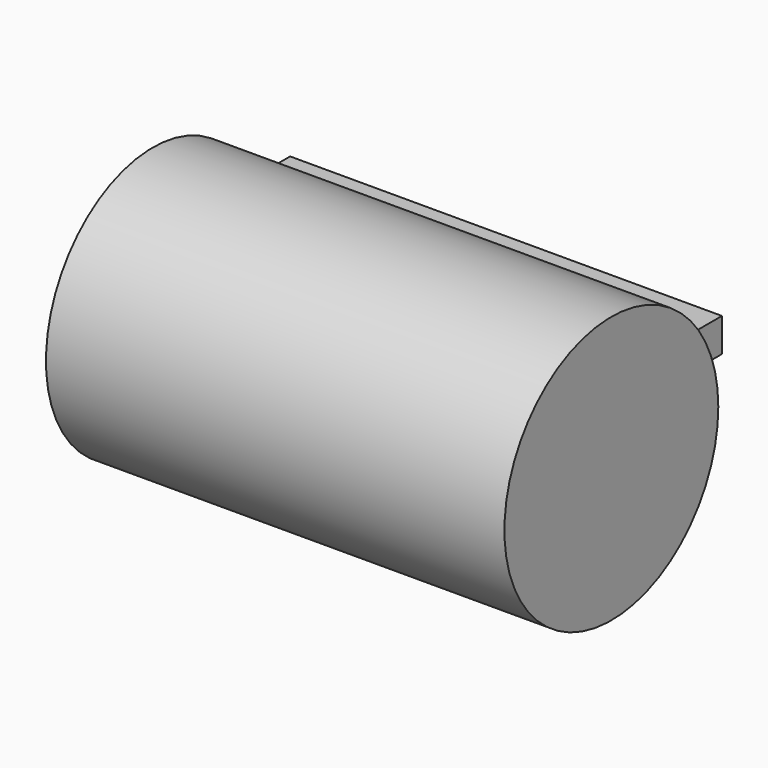
from build123d import *

# Parameters (mm, degrees)
F0_R     = 40.435152
F1_DEPTH = 138.684
F2_W     = 130.614206
F2_H     = 61.114713
F3_DEPTH = 10.16


with BuildPart() as f1:
    # F0 (on Right) → F1 (new body)
    with BuildSketch(Plane.YZ):
        with Locations((56.25781, 18.201098)):
            Circle(F0_R)
    extrude(amount=F1_DEPTH)

    # F2 (on Top) → F3 (join)
    with BuildSketch(Plane.XY):
        with Locations((35.335548, 115.056045)):
            Rectangle(F2_W, F2_H)
    extrude(amount=F3_DEPTH)


solid = f1.part
